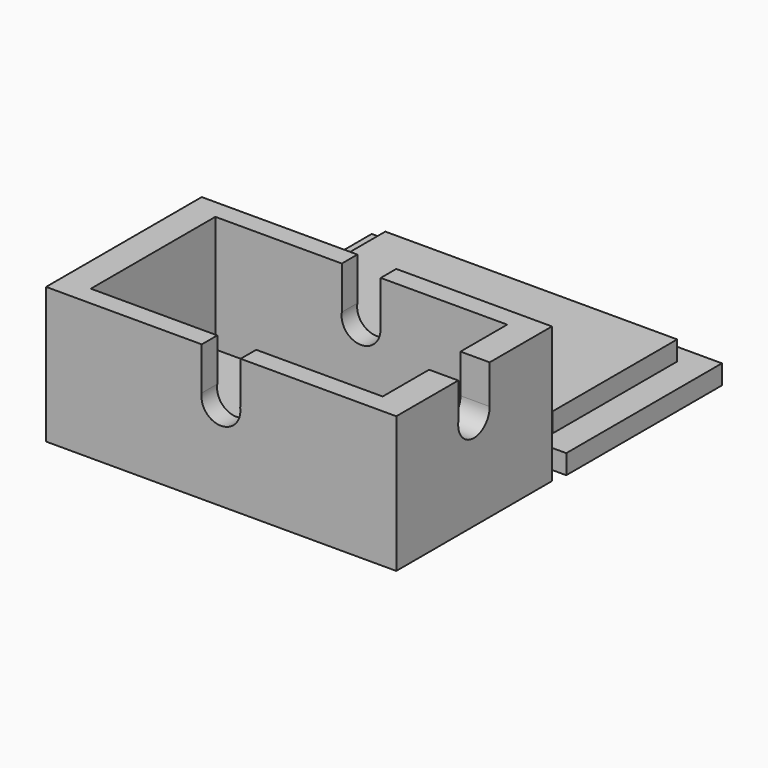
from build123d import *

# Parameters (mm, degrees)
F0_W           = 90
F0_H           = 50
F1_DEPTH       = 30
F2_W           = 75
F2_H           = 40
F4_DEPTH       = 25
F5_W           = 5
F5_H           = 25
F6_DEPTH       = 20
F3_W           = 90
F3_H           = 50
F3_W_2         = 75
F3_H_2         = 40
F7_DEPTH       = 5
F8_W           = 90
F8_H           = 50
F9_DEPTH       = 5
F10_W          = 75.0062
F10_H          = 40.005
F11_DEPTH      = 10
F13_DEPTH      = 53.35581
F13_DEPTH_BACK = 52.639
F15_DEPTH      = 79.2615


with BuildPart() as f1:
    # F0 (on Top) → F1 (new body)
    with BuildSketch(Plane.XY):
        with Locations((4.9999981374, 5.1716030198)):
            Rectangle(F0_W, F0_H)
    extrude(amount=F1_DEPTH)

    # F2 (on face) → F4 (cut)
    with BuildSketch(Plane.XY.offset(30)):
        with Locations((4.9999981374, 5.1716030198)):
            Rectangle(F2_W, F2_H)
    extrude(amount=-F4_DEPTH, mode=Mode.SUBTRACT)

    # F5 (on face) → F6 (cut)
    with BuildSketch(Plane(origin=(0, 0, 0), x_dir=(1, 0, 0), z_dir=(0, 0, -1))):
        with Locations((29.9999981374, -5.1716030198)):
            Rectangle(F5_W, F5_H)
    extrude(amount=-F6_DEPTH, mode=Mode.SUBTRACT)

    # F3 (on face) → F7 (join)
    with BuildSketch(Plane.XY.offset(30)):
        with Locations((4.9999981374, 5.1716030198)):
            Rectangle(F3_W, F3_H)
        with Locations((4.9999981374, 5.1716030198)):
            Rectangle(F3_W_2, F3_H_2, mode=Mode.SUBTRACT)
    extrude(amount=F7_DEPTH)

    # F12 (on Front) → F13 (cut, two sides)
    with BuildSketch(Plane.XZ) as f13_sk:
        with BuildLine():
            Line((9.867221937, 24), (-1.8626e-06, 24))
            ThreePointArc((-1.8626e-06, 24), (4.5262155718, 18.2045448505), (9.9336100372, 23.1879201876))
            ThreePointArc((9.9336100372, 23.1879201876), (9.9169853742, 23.5953146529), (9.867221937, 24))
        make_face()
        with BuildLine():
            Line((-1.8626e-06, 54), (-1.8626e-06, 24))
            ThreePointArc((-1.8626e-06, 24), (4.9336100372, 28.1879201876), (9.867221937, 24))
            Line((9.867221937, 24), (9.9999981374, 24))
            Line((9.9999981374, 24), (9.9999981374, 54))
            Line((9.9999981374, 54), (-1.8626e-06, 54))
        make_face()
        with BuildLine():
            ThreePointArc((9.867221937, 24), (4.9336100372, 28.1879201876), (-1.8626e-06, 24))
            Line((-1.8626e-06, 24), (9.867221937, 24))
        make_face()
    extrude(amount=-F13_DEPTH, mode=Mode.SUBTRACT)
    extrude(f13_sk.sketch, amount=F13_DEPTH_BACK, mode=Mode.SUBTRACT)

    # F14 (on Right) → F15 (cut)
    with BuildSketch(Plane.YZ):
        with BuildLine():
            Line((0.0795685682, 25), (10.1716030198, 25))
            ThreePointArc((10.1716030198, 25), (5.3911491634, 30.0538213364), (0.0795685682, 25.5614989133))
            Line((0.0795685682, 25.5614989133), (0.0795685682, 25))
        make_face()
        with BuildLine():
            ThreePointArc((0.0795685682, 25.5614989133), (4.8287818426, 19.9461786636), (10.1716030198, 25))
            Line((10.1716030198, 25), (0.0795685682, 25))
            Line((0.0795685682, 25), (0.0795685682, 25.5614989133))
        make_face()
        with BuildLine():
            ThreePointArc((0.0795685682, 25.5614989133), (5.3911491634, 30.0538213364), (10.1716030198, 25))
            Line((10.1716030198, 25), (10.1716030198, 47.029498431))
            Line((10.1716030198, 47.029498431), (0.0795685682, 47.029498431))
            Line((0.0795685682, 47.029498431), (0.0795685682, 25.5614989133))
        make_face()
    extrude(amount=F15_DEPTH, mode=Mode.SUBTRACT)


with BuildPart() as f9:
    # F8 (on Top) → F9 (new body)
    with BuildSketch(Plane.XY):
        with Locations((5.6538152695, 58.9610800147)):
            Rectangle(F8_W, F8_H)
    extrude(amount=F9_DEPTH)

    # F10 (on Top) → F11 (join)
    with BuildSketch(Plane.XY):
        with Locations((5.6499152695, 58.9673800147)):
            Rectangle(F10_W, F10_H)
    extrude(amount=F11_DEPTH)


solid = Compound([f1.part, f9.part])
